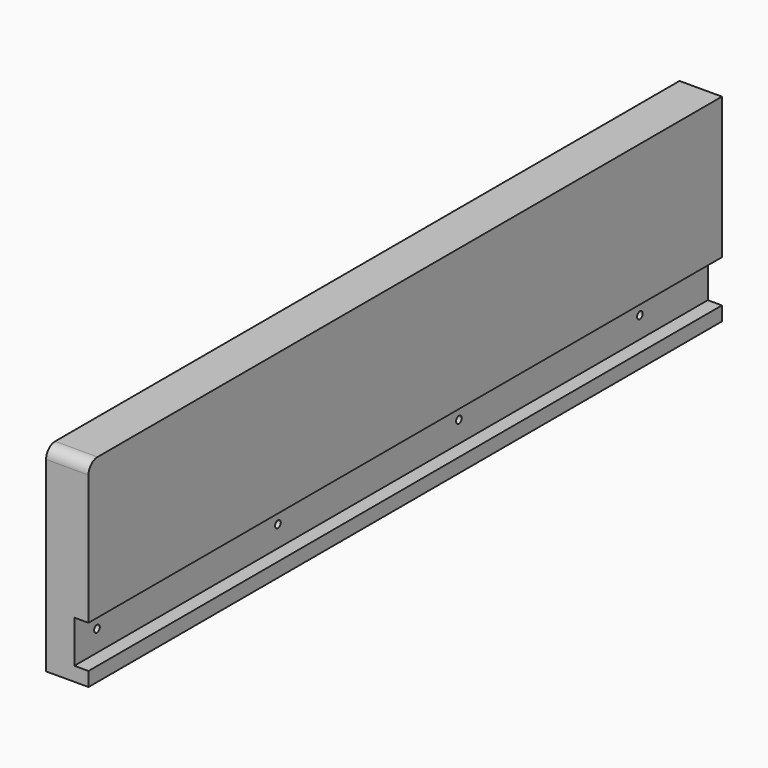
from build123d import *

# Parameters (mm, degrees)
F0_W     = 355.6
F0_H     = 88.9
F1_DEPTH = 19.05
F2_W     = 355.6
F2_H     = 19.05
F3_DEPTH = 6.35
F4_R     = 5.08
F5_R     = 1.5875
F6_DEPTH = 19.051


with BuildPart() as f1:
    # F0 (on Right) → F1 (new body)
    with BuildSketch(Plane.YZ):
        with Locations((177.8, -44.45)):
            Rectangle(F0_W, F0_H)
    extrude(amount=-F1_DEPTH)

    # F2 (on Right) → F3 (cut)
    with BuildSketch(Plane.YZ):
        with Locations((177.8, -73.025)):
            Rectangle(F2_W, F2_H)
    extrude(amount=-F3_DEPTH, mode=Mode.SUBTRACT)

    # F4
    f4_edges = [f1.edges().sort_by_distance(p)[0] for p in [
        (-9.525, 0, 0),
    ]]
    fillet(f4_edges, radius=F4_R)

    # F5 (on Right) → F6 (cut, through all)
    with BuildSketch(Plane.YZ):
        with Locations((12.7, -73.025)):
            Circle(F5_R)
        with Locations((114.3, -73.025)):
            Circle(F5_R)
        with Locations((215.9, -73.025)):
            Circle(F5_R)
        with Locations((317.5, -73.025)):
            Circle(F5_R)
    extrude(amount=-F6_DEPTH, mode=Mode.SUBTRACT)


solid = f1.part
